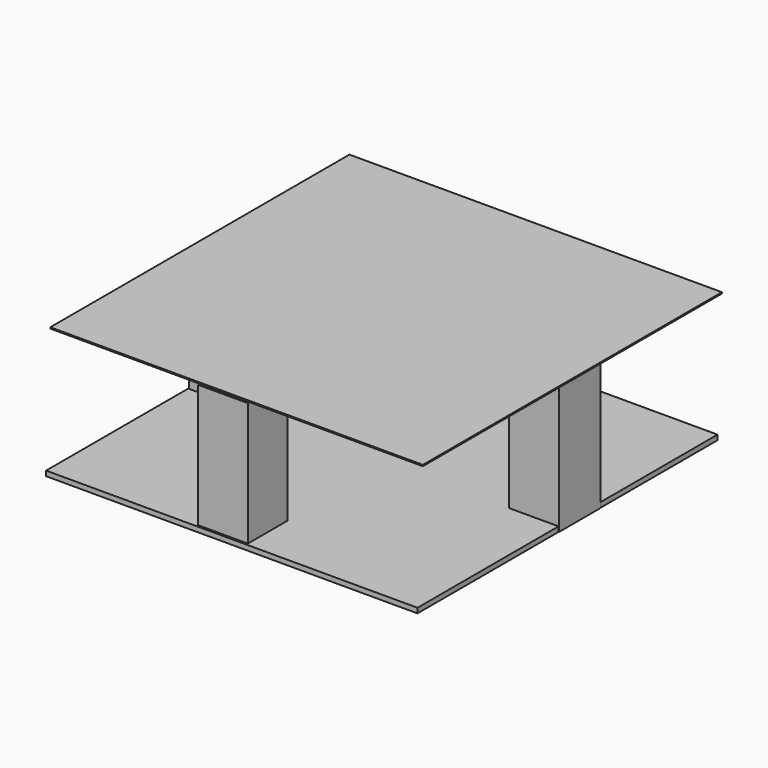
from build123d import *

# Parameters (mm, degrees)
F1_W     = 20
F1_H     = 20
F1_H_2   = 20.88598
F2_DEPTH = 51.8
F3_W     = 150.032103
F3_H     = 150.581211
F4_DEPTH = 0.5
F5_W     = 149.583716
F5_H     = 151.047349
F6_DEPTH = 2


with BuildPart() as f2:
    # F1 (on face) → F2 (new body)
    with BuildSketch(Plane.XY):
        with Locations((-17.817096, 60.374835)):
            Rectangle(F1_W, F1_H)
        with Locations((-78.530075, 0.75702)):
            Rectangle(F1_W, F1_H)
        with Locations((-18.319978, -70.006137)):
            Rectangle(F1_W, F1_H)
        with Locations((50.769648, 0.650901)):
            Rectangle(F1_W, F1_H_2)
    extrude(amount=F2_DEPTH)


with BuildPart() as f4:
    # F3 (on face) → F4 (new body)
    with BuildSketch(Plane.XY.offset(51.8)):
        with Locations((-13.514024, -3.896855)):
            Rectangle(F3_W, F3_H)
    extrude(amount=F4_DEPTH)


with BuildPart() as f6:
    # F5 (on face) → F6 (new body)
    with BuildSketch(Plane.XY):
        with Locations((-14.140634, -5.283974)):
            Rectangle(F5_W, F5_H)
    extrude(amount=F6_DEPTH)


solid = Compound([f2.part, f4.part, f6.part])
